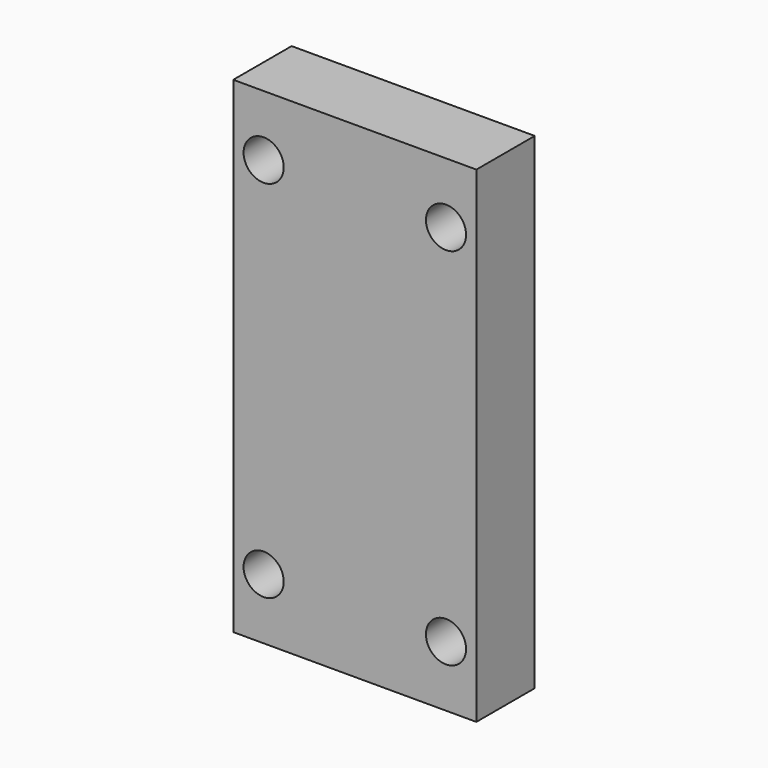
from build123d import *

# Parameters (mm, degrees)
F0_W     = 20
F0_H     = 40
F1_DEPTH = 6
F3_D     = 3.3
F3_DEPTH = 10
F3_TIP   = 0.9914200214


with BuildPart() as f1:
    # F0 (on Front) → F1 (new body)
    with BuildSketch(Plane.XZ):
        Rectangle(F0_W, F0_H)
    extrude(amount=F1_DEPTH)

    # F3
    with Locations(Plane.XZ.offset(6)):
        with Locations((-7.5, 15), (7.5, 15), (7.5, -15), (-7.5, -15)):
            Hole(F3_D / 2, depth=F3_DEPTH)
            with Locations((0, 0, -(F3_DEPTH + F3_TIP / 2))):  # 118° drill point
                Cone(0, F3_D / 2, F3_TIP, mode=Mode.SUBTRACT)


solid = f1.part
